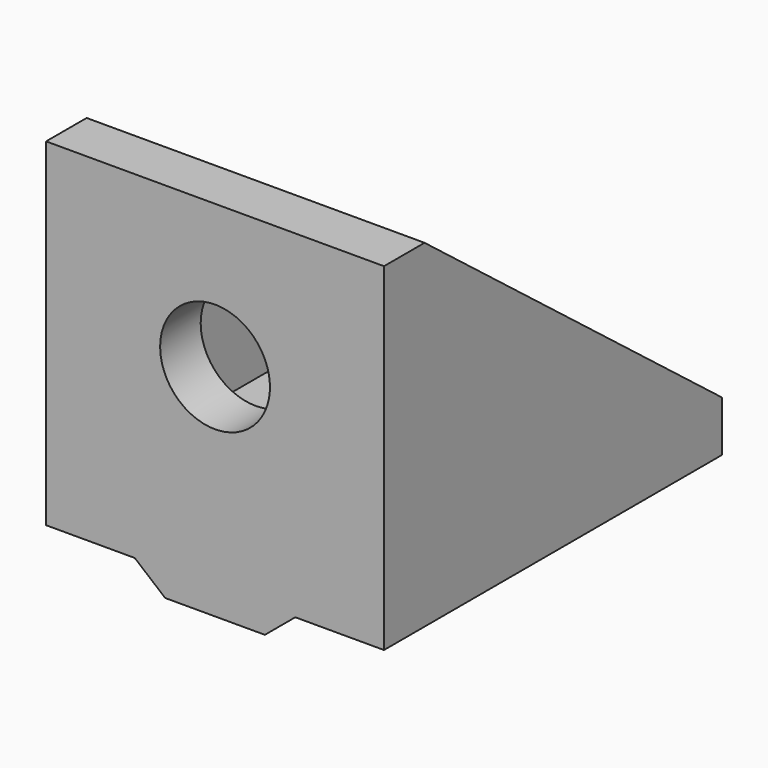
from build123d import *

# Parameters (mm, degrees)
SKETCH_W        = 20
SKETCH_H        = 25
PAD_DEPTH       = 3
SKETCH001_W     = 20
SKETCH001_H     = 3
PAD001_DEPTH    = 17
PAD002_DEPTH    = 25
SKETCH003_R     = 1.6
POCKET_DEPTH    = 21.501
SKETCH004_W     = 9.5
SKETCH004_H     = 9.5
POCKET001_DEPTH = 1.5
PAD003_DEPTH    = 20
SKETCH006_W     = 16
SKETCH006_H     = 17
POCKET002_DEPTH = 22
SKETCH007_R     = 3.25
POCKET003_DEPTH = 3.001


with BuildPart() as part:
    # Sketch → Pad (new body)
    with BuildSketch(Plane.XY):
        Rectangle(SKETCH_W, SKETCH_H)
    extrude(amount=PAD_DEPTH)

    # Sketch001 (on Face6 of Pad) → Pad001 (join)
    with BuildSketch(Plane.XY.offset(3)):
        with Locations((0, -11)):
            Rectangle(SKETCH001_W, SKETCH001_H)
    extrude(amount=PAD001_DEPTH)

    # Sketch002 (on Face6 of Pad001) → Pad002 (join)
    with BuildSketch(Plane.XZ.offset(12.5)):
        Polygon((4.75, 0), (-4.75, 0), (-2.95, -1.5), (2.95, -1.5), align=None)
    extrude(amount=-PAD002_DEPTH)

    # Sketch003 (on Face12 of Pad002) → Pocket (cut, through all)
    with BuildSketch(Plane(origin=(0, 0, -1.5), x_dir=(1, 0, 0), z_dir=(0, 0, -1))):
        Circle(SKETCH003_R)
    extrude(amount=-POCKET_DEPTH, mode=Mode.SUBTRACT)

    # Sketch004 (on Face12 of Pocket) → Pocket001 (cut)
    with BuildSketch(Plane(origin=(0, 0, -1.5), x_dir=(1, 0, 0), z_dir=(0, 0, -1))):
        Rectangle(SKETCH004_W, SKETCH004_H)
    extrude(amount=-POCKET001_DEPTH, mode=Mode.SUBTRACT)

    # Sketch005 (on Face3 of Pocket001) → Pad003 (join)
    with BuildSketch(Plane.YZ.offset(10)):
        Polygon((-9.5, 3), (-9.5, 20), (12.5, 3), align=None)
    extrude(amount=-PAD003_DEPTH)

    # Sketch006 (on Face1 of Pad003) → Pocket002 (cut)
    with BuildSketch(Plane(origin=(0, 12.5, 0), x_dir=(-1, 0, 0), z_dir=(0, 1, 0))):
        with Locations((0, 11.5)):
            Rectangle(SKETCH006_W, SKETCH006_H)
    extrude(amount=-POCKET002_DEPTH, mode=Mode.SUBTRACT)

    # Sketch007 (on Face23 of Pocket002) → Pocket003 (cut, through all)
    with BuildSketch(Plane(origin=(0, -9.5, 0), x_dir=(-1, 0, 0), z_dir=(0, 1, 0))):
        with Locations((0, 11.5)):
            Circle(SKETCH007_R)
    extrude(amount=-POCKET003_DEPTH, mode=Mode.SUBTRACT)


solid = part.part
